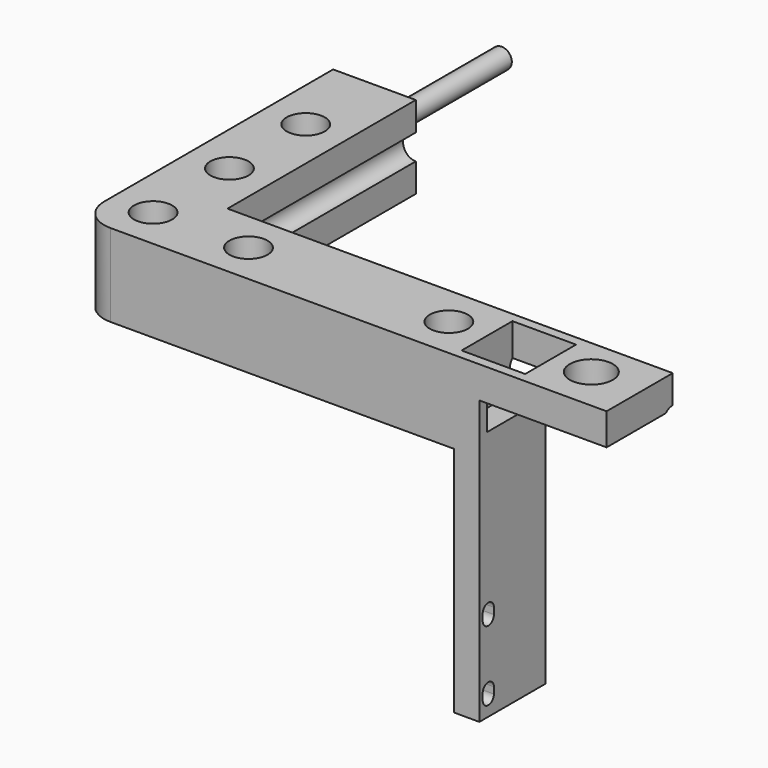
from build123d import *

# Parameters (mm, degrees)
F0_W      = 13
F0_H      = 13
F1_DEPTH  = 50
F2_W      = 13
F2_H      = 13
F3_DEPTH  = 50
F5_R      = 1.6
F6_DEPTH  = 25
F8_D      = 6
F9_W      = 13
F9_H      = 5
F10_DEPTH = 20
F11_W     = 4
F11_H     = 13
F12_DEPTH = 36.5
F15_D     = 6.7564
F17_DEPTH = 4
F18_W     = 10
F18_H     = 10
F19_DEPTH = 10
F22_R     = 5
F23_D     = 4
F23_DEPTH = 39
F23_TIP   = 1.2017212381
F24_D     = 4.1
F24_DEPTH = 70
F24_TIP   = 1.231764269


with BuildPart() as f1:
    # F0 (on Front) → F1 (new body)
    with BuildSketch(Plane.XZ):
        Rectangle(F0_W, F0_H)
    extrude(amount=F1_DEPTH)

    # F2 (on face) → F3 (join)
    with BuildSketch(Plane.YZ.offset(6.5)):
        with Locations((-43.5, 0)):
            Rectangle(F2_W, F2_H)
    extrude(amount=F3_DEPTH)

    # F5 (on face) → F6 (join)
    with BuildSketch(Plane(origin=(0, 0, 0), x_dir=(-1, 0, 0), z_dir=(0, 1, 0))):
        Circle(F5_R)
    extrude(amount=F6_DEPTH)

    # F8 (through all)
    with Locations(Plane.XY.offset(6.5)):
        with Locations((0, -28.5), (0, -13.5), (0, -43.5), (15, -43.5), (46.5, -43.5)):
            Hole(F8_D / 2)

    # F9 (on face) → F10 (join)
    with BuildSketch(Plane.YZ.offset(56.5)):
        with Locations((-43.5, 4)):
            Rectangle(F9_W, F9_H)
    extrude(amount=F10_DEPTH)

    # F11 (on face) → F12 (join)
    with BuildSketch(Plane(origin=(0, 0, -6.5), x_dir=(1, 0, 0), z_dir=(0, 0, -1))):
        with Locations((54.5, 43.5)):
            Rectangle(F11_W, F11_H)
    extrude(amount=F12_DEPTH)

    # F15 (through all)
    with Locations(Plane.XY.offset(6.5)):
        with Locations((68.5, -43)):
            Hole(F15_D / 2)

    # F16 (on face) → F17 (cut, through all)
    with BuildSketch(Plane.YZ.offset(56.5)):
        with BuildLine():
            Line((-49.35, -39.3), (-49.35, -40.3))
            ThreePointArc((-49.35, -40.3), (-48.25, -41.4), (-47.15, -40.3))
            Line((-47.15, -40.3), (-47.15, -39.3))
            ThreePointArc((-47.15, -39.3), (-48.25, -38.2), (-49.35, -39.3))
        make_face()
        with BuildLine():
            Line((-49.35, -28.3), (-49.35, -29.3))
            ThreePointArc((-49.35, -29.3), (-48.25, -30.4), (-47.15, -29.3))
            Line((-47.15, -29.3), (-47.15, -28.3))
            ThreePointArc((-47.15, -28.3), (-48.25, -27.2), (-49.35, -28.3))
        make_face()
    extrude(amount=-F17_DEPTH, mode=Mode.SUBTRACT)

    # F18 (on face) → F19 (cut)
    with BuildSketch(Plane.XY.offset(6.5)):
        with Locations((57.5, -43.5)):
            Rectangle(F18_W, F18_H)
    extrude(amount=-F19_DEPTH, mode=Mode.SUBTRACT)

    # F22
    f22_edges = [f1.edges().sort_by_distance(p)[0] for p in [
        (-6.5, -50, 0),
    ]]
    fillet(f22_edges, radius=F22_R)

    # F23
    with Locations(Plane(origin=(0, 0, 0), x_dir=(-1, 0, 0), z_dir=(0, 1, 0))):
        with Locations((-6.5, 0)):
            Hole(F23_D / 2, depth=F23_DEPTH)
            with Locations((0, 0, -(F23_DEPTH + F23_TIP / 2))):  # 118° drill point
                Cone(0, F23_D / 2, F23_TIP, mode=Mode.SUBTRACT)

    # F24
    with Locations(Plane.YZ.offset(76.5)):
        with Locations((-37, 0)):
            Hole(F24_D / 2, depth=F24_DEPTH)
            with Locations((0, 0, -(F24_DEPTH + F24_TIP / 2))):  # 118° drill point
                Cone(0, F24_D / 2, F24_TIP, mode=Mode.SUBTRACT)


solid = f1.part
